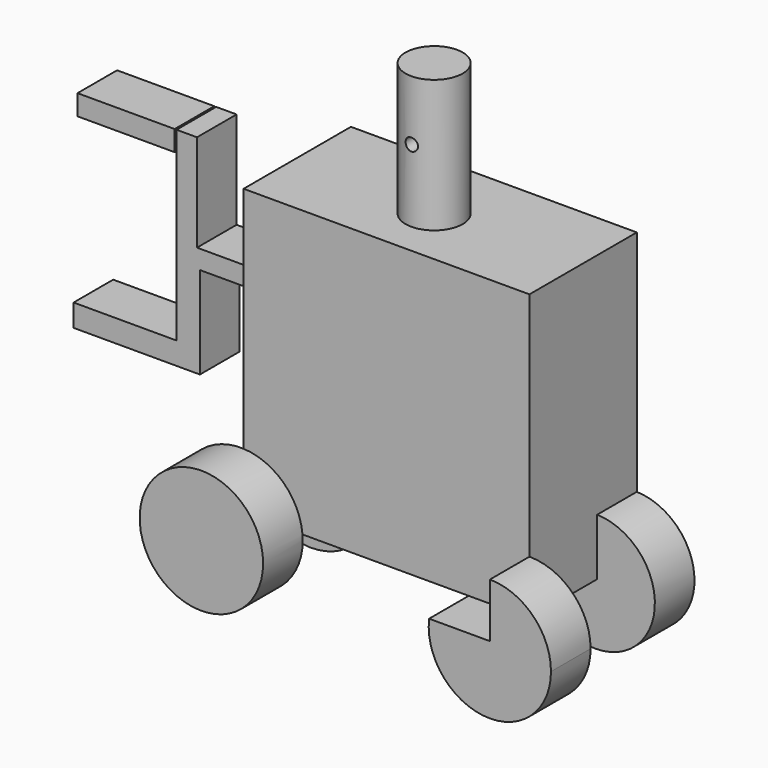
from build123d import *

# Parameters (mm, degrees)
F0_W      = 146.6556340456
F0_H      = 146.2992727757
F1_DEPTH  = 68.834
F2_R      = 14.6557802675
F3_DEPTH  = 140.97
F5_D      = 6.35
F7_R      = 31.6665233441
F8_DEPTH  = 25.4
F9_DEPTH  = 25.4
F10_R     = 30.4056844506
F10_R_2   = 32.7920406296
F11_DEPTH = 25.4
F12_W     = 10.4675292969
F12_H     = 49.845370464
F12_W_2   = 52.8360903263
F12_H_2   = 11.4644356072
F13_DEPTH = 25.4
F12_W_3   = 49.8453676701
F12_H_3   = 10.4675255716


with BuildPart() as f1:
    # F0 (on Front) → F1 (new body)
    with BuildSketch(Plane.XZ):
        with Locations((0.2725943923, -0.19390136)):
            Rectangle(F0_W, F0_H)
    extrude(amount=F1_DEPTH)

    # F2 (on Top) → F3 (join)
    with BuildSketch(Plane.XY):
        with Locations((0, -37.9476025701)):
            Circle(F2_R)
    extrude(amount=F3_DEPTH)

    # F5 (through all)
    with Locations(Plane(origin=(0, 0, 0), x_dir=(1, 0, 0), z_dir=(0, 1, 0))):
        with Locations((0, -110.1090013981)):
            Hole(F5_D / 2)

    # F7 (on face) → F8 (join)
    with BuildSketch(Plane.XZ.offset(68.834)):
        with Locations((-74.3853971362, -76.1065930128)):
            Circle(F7_R)
    extrude(amount=F8_DEPTH)

    # F10 (on Front) → F11 (join)
    with BuildSketch(Plane.XZ):
        with Locations((72.7967619896, -74.6112391353)):
            Circle(F10_R)
        with Locations((-73.250181973, -74.1127803922)):
            Circle(F10_R_2)
    extrude(amount=F11_DEPTH)

    # F12 (on Front) → F13 (join)
    with BuildSketch(Plane.XZ):
        Polygon((-130.2122175694, 0), (-72.3915845156, 0), (-72.3915845156, 9.6274474636), (-131.7075788975, 9.6274474636), (-142.1751081944, 9.6274474636), (-142.1751081944, 0), align=None)
        Polygon((-130.2122175694, -47.1962802112), (-130.2122175694, 0), (-142.1751081944, 0), (-142.1751081944, -35.731844604), (-142.1751081944, -47.1962802112), align=None)
        with Locations((-136.9413435459, 34.5501326956)):
            Rectangle(F12_W, F12_H)
        with Locations((-168.5931533575, -41.4640624076)):
            Rectangle(F12_W_2, F12_H_2)
    extrude(amount=F13_DEPTH)


with BuildPart() as f9:
    # F6 (on face) → F9 (new body)
    with BuildSketch(Plane.XZ.offset(68.834)):
        with BuildLine():
            ThreePointArc((42.4340785854, -73.3435377479), (71.8246008307, -108.2065568723), (104.9678130656, -76.889462769))
            ThreePointArc((104.9678130656, -76.889462769), (95.7805138304, -54.7093603538), (73.6004114151, -45.5220611185))
            Line((73.6004114151, -45.5220611185), (73.6004114151, -73.3435377479))
            Line((73.6004114151, -73.3435377479), (42.4340785854, -73.3435377479))
        make_face()
    extrude(amount=F9_DEPTH)


with BuildPart() as f13:
    # F12 (on Front) → F13, piece 2 (new body)
    with BuildSketch(Plane.XZ):
        with Locations((-168.0946946144, 54.2390551418)):
            Rectangle(F12_W_3, F12_H_3)
    extrude(amount=F13_DEPTH)


solid = Compound([f1.part, f9.part, f13.part])
